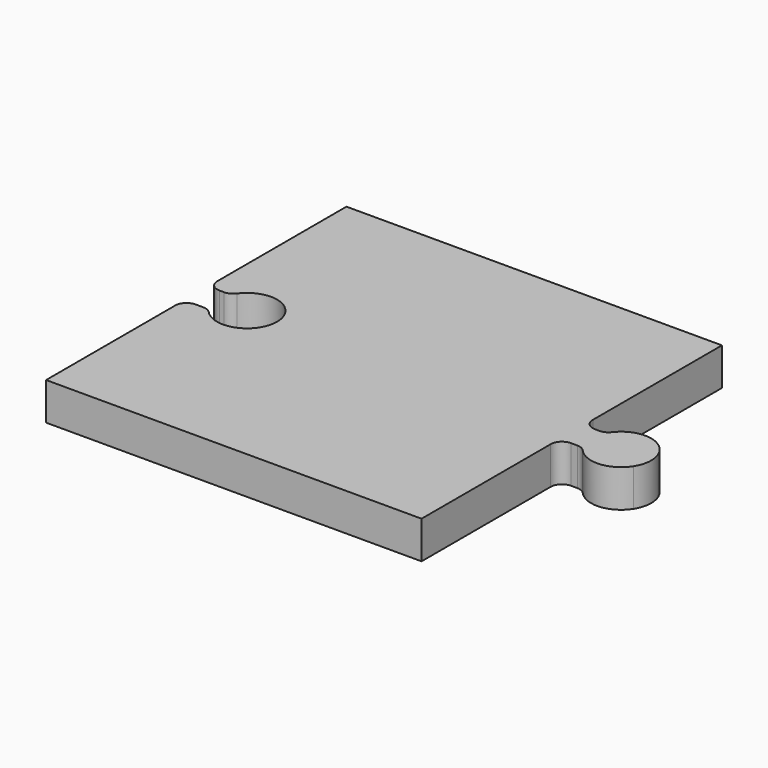
from build123d import *

# Parameters (mm, degrees)
F1_DEPTH = 5


with BuildPart() as f1:
    # F0 (on Top) → F1 (new body)
    with BuildSketch(Plane.XY):
        with BuildLine():
            Line((0, 28.5), (0, 50))
            Line((0, 50), (-50, 50))
            Line((-50, 50), (-50, 28.5))
            ThreePointArc((-50, 28.5), (-49.56066, 27.43934), (-48.5, 27))
            Line((-48.5, 27), (-47.876976, 27))
            ThreePointArc((-47.876976, 27), (-47.198184, 27.162375), (-46.66635, 27.614345))
            ThreePointArc((-46.66635, 27.614345), (-43.079484, 29.236499), (-39.839877, 27))
            ThreePointArc((-39.839877, 27), (-39.448681, 24.960662), (-40.132594, 23))
            ThreePointArc((-40.132594, 23), (-43.132912, 21.264252), (-46.362337, 22.523436))
            ThreePointArc((-46.362337, 22.523436), (-46.86111, 22.87571), (-47.458959, 23))
            Line((-47.458959, 23), (-48.5, 23))
            ThreePointArc((-48.5, 23), (-49.56066, 22.56066), (-50, 21.5))
            Line((-50, 21.5), (-50, 0))
            Line((-50, 0), (0, 0))
            Line((0, 0), (0, 21.5))
            ThreePointArc((0, 21.5), (0.43934, 22.56066), (1.5, 23))
            Line((1.5, 23), (2.346308, 23))
            ThreePointArc((2.346308, 23), (2.961343, 22.868113), (3.468224, 22.495643))
            ThreePointArc((3.468224, 22.495643), (6.775996, 21.163191), (9.832615, 23))
            ThreePointArc((9.832615, 23), (8.755451, 28.426496), (3.287213, 27.586552))
            ThreePointArc((3.287213, 27.586552), (2.760678, 27.154606), (2.097418, 27))
            Line((2.097418, 27), (1.5, 27))
            ThreePointArc((1.5, 27), (0.43934, 27.43934), (0, 28.5))
        make_face()
    extrude(amount=F1_DEPTH)


solid = f1.part
